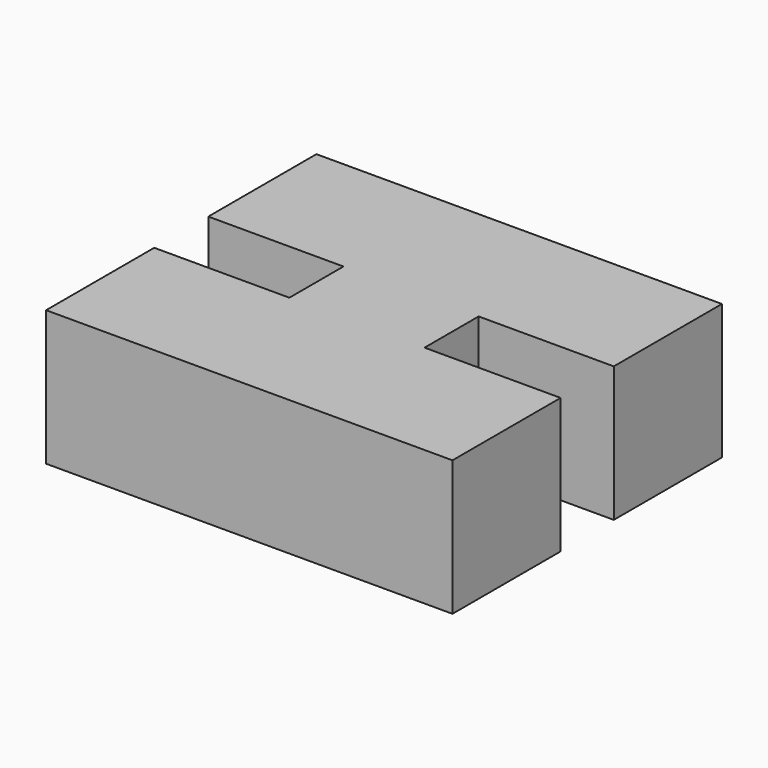
from build123d import *

# Parameters (mm, degrees)
F1_DEPTH = 10
F3_R     = 2.5
F4_DEPTH = 5


with BuildPart() as f1:
    # F0 (on Top) → F1 (new body)
    with BuildSketch(Plane.XY):
        Polygon((30, 0), (0, 0), (0, -10), (10, -10), (10, -15), (0, -15), (0, -25), (30.0657091261, -25), (30.0657091261, -15), (20, -15), (20, -10), (30, -10), align=None)
    extrude(amount=F1_DEPTH)

    # F3 (on offset) → F4 (cut)
    with BuildSketch(Plane(origin=(0, 0, 0), x_dir=(0, -1, 0), z_dir=(-1, 0, 0))):
        with Locations((5, 5)):
            Circle(F3_R)
        with Locations((20, 5)):
            Circle(F3_R)
    extrude(amount=-F4_DEPTH, mode=Mode.SUBTRACT)


solid = f1.part
